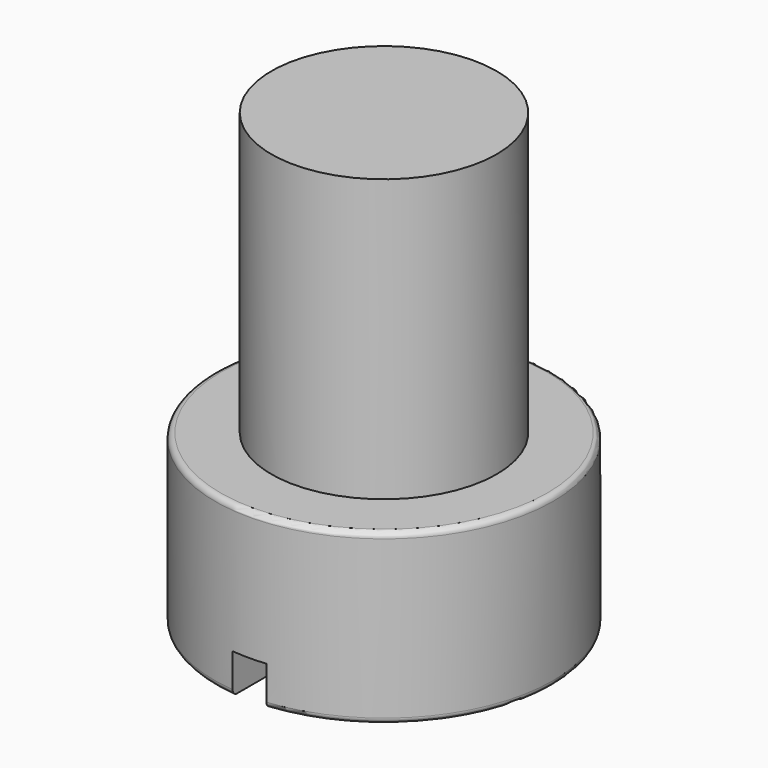
from build123d import *

# Parameters (mm, degrees)
F2_W     = 0.3
F2_H     = 0.35
F3_DEPTH = 12.5
F4_R     = 0.05


with BuildPart() as f1:
    # F0 (on Front) → F1 (revolve)
    with BuildSketch(Plane.XZ):
        Polygon((0, 4), (0, 0), (1.5, 0), (1.5, 1.5), (1, 1.5), (1, 4), align=None)
    revolve(axis=Axis((0, 0, 2), (0, 0, -1)))

    # F2 (on Front) → F3 (cut, symmetric)
    with BuildSketch(Plane.XZ):
        with Locations((0, 0.175)):
            Rectangle(F2_W, F2_H)
    extrude(amount=F3_DEPTH, both=True, mode=Mode.SUBTRACT)

    # F4
    f4_edges = [f1.edges().sort_by_distance(p)[0] for p in [
        (-1.5, 0, 1.5),
        (1.11243, -1.006231, 0),
        (1.11243, 1.006231, 0),
        (-1.5, 0, 0),
    ]]
    fillet(f4_edges, radius=F4_R)


solid = f1.part
